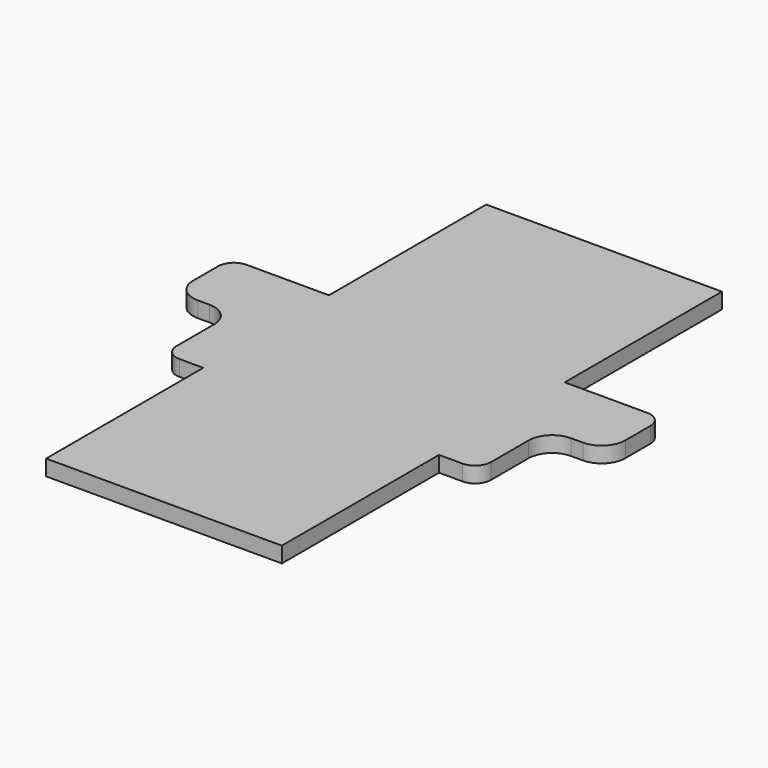
from build123d import *

# Parameters (mm, degrees)
F1_DEPTH = 2


with BuildPart() as f1:
    # F0 (on Top) → F1 (new body)
    with BuildSketch(Plane.XY):
        with BuildLine():
            Line((-15, -10), (-15, -35))
            Line((-15, -35), (15, -35))
            Line((15, -35), (15, -10))
            Line((15, -10), (18, -10))
            ThreePointArc((18, -10), (19.414214, -9.414214), (20, -8))
            Line((20, -8), (20, -2))
            ThreePointArc((20, -2), (20.87868, 0.12132), (23, 1))
            Line((23, 1), (24.5, 1))
            ThreePointArc((24.5, 1), (26.62132, 1.87868), (27.5, 4))
            Line((27.5, 4), (27.5, 8))
            ThreePointArc((27.5, 8), (26.914214, 9.414214), (25.5, 10))
            Line((25.5, 10), (15, 10))
            Line((15, 10), (15, 35))
            Line((15, 35), (-15, 35))
            Line((-15, 35), (-15, 10))
            Line((-15, 10), (-25.5, 10))
            ThreePointArc((-25.5, 10), (-26.914214, 9.414214), (-27.5, 8))
            Line((-27.5, 8), (-27.5, 4))
            ThreePointArc((-27.5, 4), (-26.62132, 1.87868), (-24.5, 1))
            Line((-24.5, 1), (-23, 1))
            ThreePointArc((-23, 1), (-20.87868, 0.12132), (-20, -2))
            Line((-20, -2), (-20, -8))
            ThreePointArc((-20, -8), (-19.414214, -9.414214), (-18, -10))
            Line((-18, -10), (-15, -10))
        make_face()
    extrude(amount=F1_DEPTH)


solid = f1.part
